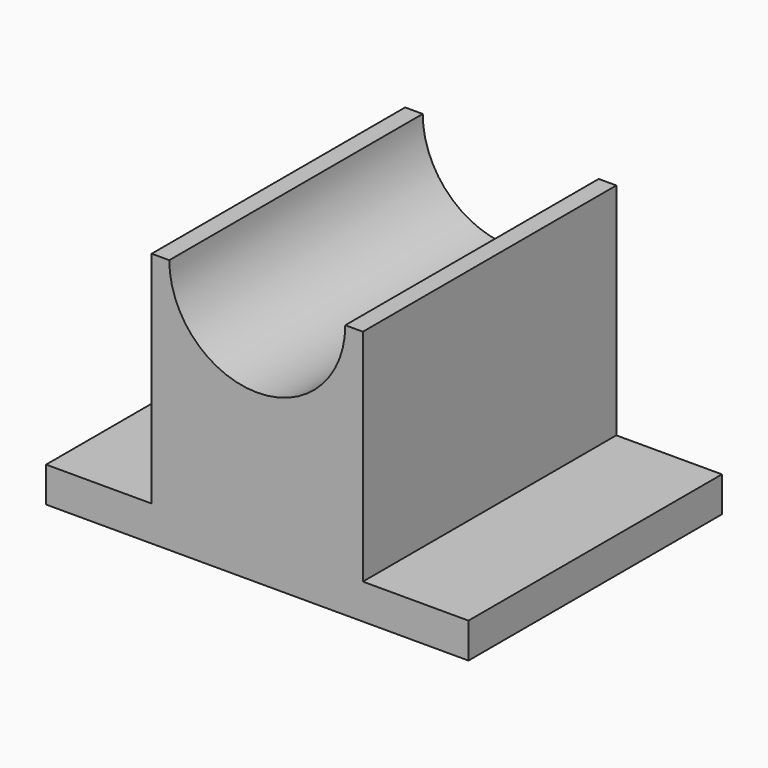
from build123d import *

# Parameters (mm, degrees)
F1_DEPTH = 114.3
F2_W     = 38.1
F2_H     = 79.375
F3_DEPTH = 114.301
F5_DEPTH = 114.301


with BuildPart() as f1:
    # F0 (on Front) → F1 (new body)
    with BuildSketch(Plane.XZ):
        Polygon((-76.2, -30.85657), (0, -30.85657), (76.2, -30.85657), (76.2, 61.21843), (-76.2, 61.21843), align=None)
    extrude(amount=F1_DEPTH)

    # F2 (on face) → F3 (cut, through all)
    with BuildSketch(Plane.XZ.offset(114.3)):
        with Locations((-57.15, 21.53093)):
            Rectangle(F2_W, F2_H)
        with Locations((57.15, 21.53093)):
            Rectangle(F2_W, F2_H)
    extrude(amount=-F3_DEPTH, mode=Mode.SUBTRACT)

    # F4 (on face) → F5 (cut, through all)
    with BuildSketch(Plane.XZ.offset(114.3)):
        with BuildLine():
            Line((31.75, 61.21843), (-31.75, 61.21843))
            ThreePointArc((-31.75, 61.21843), (0, 29.46843), (31.75, 61.21843))
        make_face()
    extrude(amount=-F5_DEPTH, mode=Mode.SUBTRACT)


solid = f1.part
